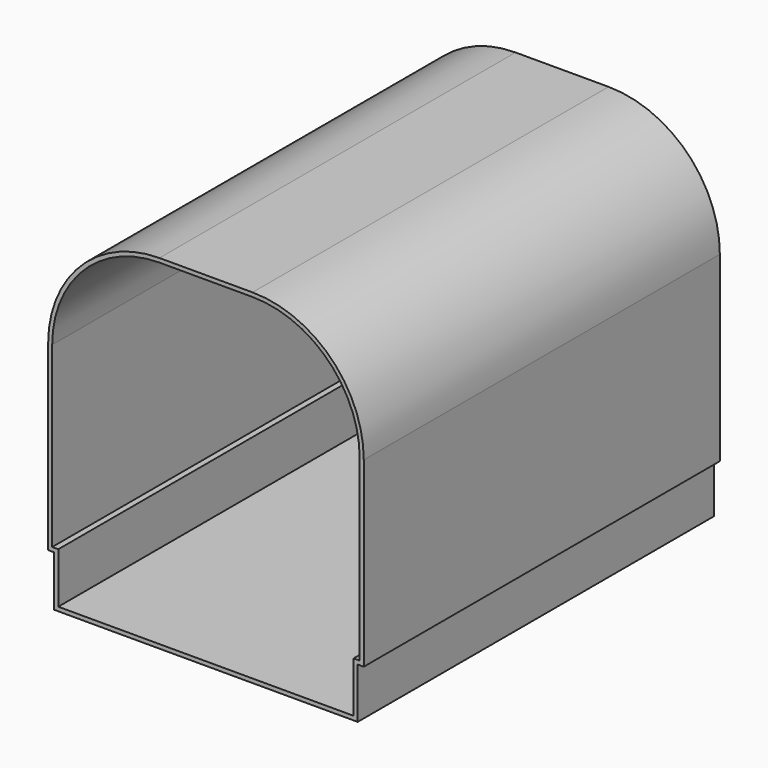
from build123d import *

# Parameters (mm, degrees)
F1_DEPTH = 2200
F2_T     = -20


with BuildPart() as f1:
    # F0 (on Front) → F1 (new body)
    with BuildSketch(Plane.XZ):
        with BuildLine():
            Line((-750, 250), (-750, 0))
            Line((-750, 0), (750, 0))
            Line((750, 0), (750, 250))
            Line((750, 250), (780, 250))
            Line((780, 250), (780, 1150))
            ThreePointArc((780, 1150), (618.9087296526, 1538.9087296526), (230, 1700))
            Line((230, 1700), (-230, 1700))
            ThreePointArc((-230, 1700), (-618.9087296526, 1538.9087296526), (-780, 1150))
            Line((-780, 1150), (-780, 250))
            Line((-780, 250), (-750, 250))
        make_face()
    extrude(amount=F1_DEPTH)

    # F2
    f2_openings = [f1.faces().sort_by_distance(p)[0] for p in [
        (0, -2200, 816.682074),
    ]]
    offset(amount=F2_T, openings=f2_openings, kind=Kind.INTERSECTION)


solid = f1.part
